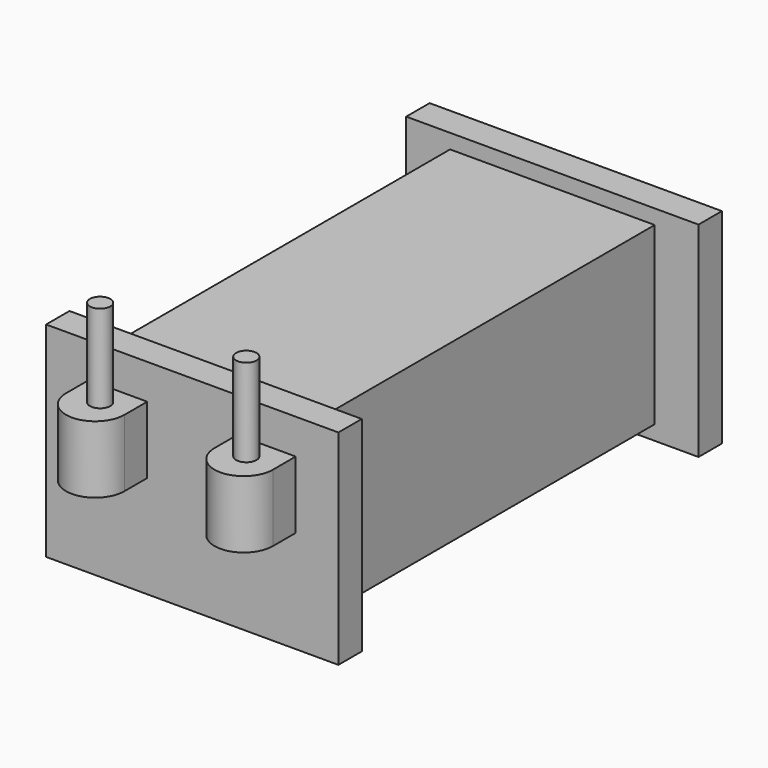
from build123d import *

# Parameters (mm, degrees)
SKETCH250_W  = 7
SKETCH250_H  = 14.4
PAD172_DEPTH = 3
SKETCH256_W  = 10
SKETCH256_H  = 7
PAD182_DEPTH = 1
SKETCH253_W  = 10
SKETCH253_H  = 7
PAD175_DEPTH = 1
PAD171_DEPTH = 2.3
SKETCH251_R  = 0.35
PAD183_DEPTH = 3


with BuildPart() as part:
    # Sketch250 → Pad172 (new body, symmetric)
    with BuildSketch(Plane.XY):
        with Locations((0, -0.37169)):
            Rectangle(SKETCH250_W, SKETCH250_H)
    extrude(amount=PAD172_DEPTH, both=True)

    # Sketch256 (on Face3 of Pad172) → Pad182 (join)
    with BuildSketch(Plane.XZ.offset(7.57169)):
        Rectangle(SKETCH256_W, SKETCH256_H)
    extrude(amount=PAD182_DEPTH)

    # Sketch253 (on Face11 of Pad182) → Pad175 (join)
    with BuildSketch(Plane(origin=(0, 6.82831, 0), x_dir=(-1, 0, 0), z_dir=(0, 1, 0))):
        Rectangle(SKETCH253_W, SKETCH253_H)
    extrude(amount=PAD175_DEPTH)

    # Sketch260 → Pad171 (join)
    with BuildSketch(Plane.XY):
        with BuildLine():
            ThreePointArc((-3.539731, -9.545275), (-2.539731, -10.545275), (-1.539731, -9.545275))
            Line((-1.539731, -8.57169), (-1.539731, -9.545275))
            Line((-3.539731, -8.57169), (-1.539731, -8.57169))
            Line((-3.539731, -8.57169), (-3.539731, -9.545275))
        make_face()
        with BuildLine():
            ThreePointArc((1.539731, -9.545275), (2.539731, -10.545275), (3.539731, -9.545275))
            Line((3.539731, -8.57169), (3.539731, -9.545275))
            Line((3.539731, -8.57169), (1.539731, -8.57169))
            Line((1.539731, -8.57169), (1.539731, -9.545275))
        make_face()
    extrude(amount=PAD171_DEPTH)

    # Sketch251 (on Face19 of Pad171) → Pad183 (join)
    with BuildSketch(Plane.XY.offset(2.3)):
        with Locations((-2.5, -9.384607)):
            Circle(SKETCH251_R)
        with Locations((2.5, -9.384607)):
            Circle(SKETCH251_R)
    extrude(amount=PAD183_DEPTH)


with BuildPart() as part_1:
    # Body052 placement: moved
    add(part.part.moved(Location((3.5, -13, 0))))


solid = part_1.part
